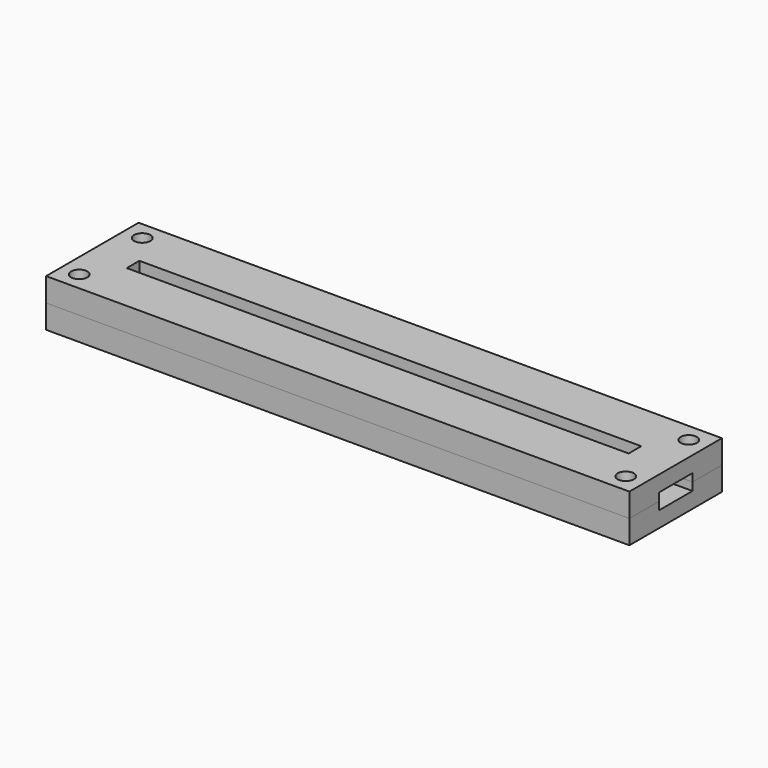
from build123d import *

# Parameters (mm, degrees)
BOX_BOTTOM_HALF_0_W     = 113
BOX_BOTTOM_HALF_0_H     = 24
BOX_BOTTOM_HALF_0_DEPTH = 5.5
SKETCH_W                = 111
SKETCH_H                = 22
PAD_DEPTH               = 3
PAD001_DEPTH            = 3
SKETCH002_W             = 111
SKETCH002_H             = 22
SKETCH002_W_2           = 95.5
SKETCH002_H_2           = 3
PAD002_DEPTH            = 3
SKETCH003_R             = 1.55
POCKET_DEPTH            = 236.034037
POLARPATTERN_COUNT      = 2
POLARPATTERN001_COUNT   = 2
POLARPATTERN002_COUNT   = 2


with BuildPart() as box_bottom_half_0_body:
    # box_bottom_half_0 → box_bottom_half_0 (new body)
    with BuildSketch(Plane(origin=(-56.5, -12, -1), x_dir=(1, 0, 0), z_dir=(0, 0, 1))):
        with Locations((56.5, 12)):
            Rectangle(BOX_BOTTOM_HALF_0_W, BOX_BOTTOM_HALF_0_H)
    extrude(amount=BOX_BOTTOM_HALF_0_DEPTH)


with BuildPart() as body:
    # Sketch → Pad (new body)
    with BuildSketch(Plane.XY):
        Rectangle(SKETCH_W, SKETCH_H)
    extrude(amount=PAD_DEPTH)

    # Sketch001 (on Face6 of Pad) → Pad001 (join)
    with BuildSketch(Plane.XY.offset(3)):
        Polygon((-55.5, 11), (55.5, 11), (55.5, 4), (50, 4), (50, 5), (-50, 5), (-50, 4), (-55.5, 4), align=None)
        Polygon((-55.5, -11), (55.5, -11), (55.5, -4), (50, -4), (50, -5), (-50, -5), (-50, -4), (-55.5, -4), align=None)
    extrude(amount=PAD001_DEPTH)

    # Sketch002 (on Face12 of Pad001) → Pad002 (join)
    with BuildSketch(Plane.XY.offset(6)):
        Rectangle(SKETCH002_W, SKETCH002_H)
        Rectangle(SKETCH002_W_2, SKETCH002_H_2, mode=Mode.SUBTRACT)
    extrude(amount=PAD002_DEPTH)

    # Sketch003 (on Face26 of Pad002) → Pocket (cut, through all)
    with BuildSketch(Plane.XY.offset(9)):
        with Locations((-52, 7.5)):
            Circle(SKETCH003_R)
    pocket = extrude(amount=-POCKET_DEPTH, mode=Mode.SUBTRACT)

    # PolarPattern: Pocket ×2 about axis
    polarpattern_axis = Axis((0, 0, 0), (0, 1, 0))
    for i in range(1, POLARPATTERN_COUNT):
        add(pocket.rotate(polarpattern_axis, i * 360 / POLARPATTERN_COUNT), mode=Mode.SUBTRACT)

    # PolarPattern001: Pocket ×2 about axis
    polarpattern001_axis = Axis((0, 0, 0), (1, 0, 0))
    for i in range(1, POLARPATTERN001_COUNT):
        add(pocket.rotate(polarpattern001_axis, i * 360 / POLARPATTERN001_COUNT), mode=Mode.SUBTRACT)

    # PolarPattern002: Pocket ×2 about axis
    polarpattern002_axis = Axis((0, 0, 9), (0, 0, 1))
    for i in range(1, POLARPATTERN002_COUNT):
        add(pocket.rotate(polarpattern002_axis, i * 360 / POLARPATTERN002_COUNT), mode=Mode.SUBTRACT)


with BuildPart() as bottom_half_0_body:
    # bottom_half_0 base: copy of Body
    add(body.part)

    # bottom_half_0: intersect box_bottom_half_0 body
    add(box_bottom_half_0_body.part, mode=Mode.INTERSECT)


with BuildPart() as top_half_0_body:
    # top_half_0 base: copy of Body
    add(body.part)

    # top_half_0: cut box_bottom_half_0 body
    add(box_bottom_half_0_body.part, mode=Mode.SUBTRACT)


solid = Compound([bottom_half_0_body.part, top_half_0_body.part])
